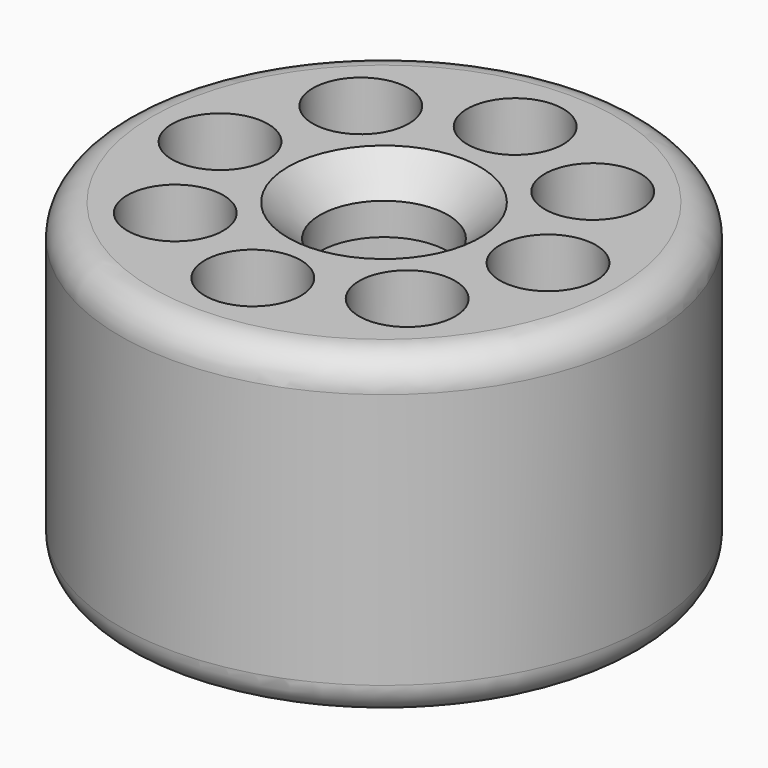
from build123d import *

# Parameters (mm, degrees)
F2_R     = 5.08
F3_SIZE  = 5.08
F4_R     = 7.62
F5_DEPTH = 50.801


with BuildPart() as f1:
    # F0 (on Front) → F1 (revolve)
    with BuildSketch(Plane.XZ):
        Polygon((-10.16, 32.184738), (-10.16, 42.344738), (-41.91, 42.344738), (-41.91, -8.455262), (-10.16, -8.455262), (-10.16, 1.704738), (-34.29, 1.704738), (-34.29, 32.184738), align=None)
    revolve(axis=Axis((0, 0, 0.186502), (0, 0, -1)))

    # F2
    f2_edges = [f1.edges().sort_by_distance(p)[0] for p in [
        (41.91, 0, 42.344738),
        (41.91, 0, -8.455262),
    ]]
    fillet(f2_edges, radius=F2_R)

    # F3
    f3_edges = [f1.edges().sort_by_distance(p)[0] for p in [
        (10.16, 0, 42.344738),
        (10.16, 0, -8.455262),
    ]]
    chamfer(f3_edges, length=F3_SIZE)

    # F4 (on face) → F5 (cut, through all)
    with BuildSketch(Plane.XY.offset(42.344738)):
        with Locations((-18.409525, -18.409525)):
            Circle(F4_R)
        with Locations((0, -26.035)):
            Circle(F4_R)
        with Locations((18.409525, -18.409525)):
            Circle(F4_R)
        with Locations((26.035, 0)):
            Circle(F4_R)
        with Locations((18.409525, 18.409525)):
            Circle(F4_R)
        with Locations((0, 26.035)):
            Circle(F4_R)
        with Locations((-18.409525, 18.409525)):
            Circle(F4_R)
        with Locations((-26.035, 0)):
            Circle(F4_R)
    extrude(amount=-F5_DEPTH, mode=Mode.SUBTRACT)


with BuildPart() as f6_1:
    # F6: copy of F1
    add(f1.part)


solid = Compound([f1.part, f6_1.part])
